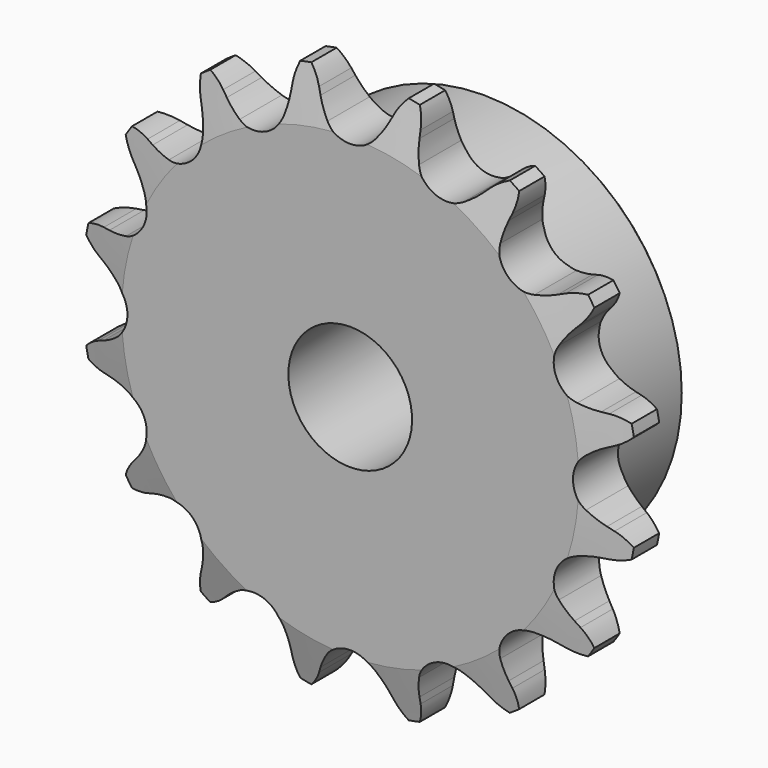
from build123d import *

# Parameters (mm, degrees)
F0_W     = 7.2136
F0_H     = 10.287
F0_H_2   = 17.4625
F0_W_2   = 15.0114
F2_R     = 1.5875
F3_SIZE  = 0.79375
F4_SIZE2 = 6.35
F4_SIZE  = 1.5748
F6_DEPTH = 22.226


with BuildPart() as f1:
    # F0 (on Right) → F1 (revolve)
    with BuildSketch(Plane.YZ):
        with Locations((3.6068, 30.5435)):
            Rectangle(F0_W, F0_H)
        with Locations((3.6068, 16.66875)):
            Rectangle(F0_W, F0_H_2)
        with Locations((14.7193, 16.66875)):
            Rectangle(F0_W_2, F0_H_2)
    revolve(axis=Axis((0, 11.1125, 0), (0, 1, 0)))

    # F2
    f2_edges = [f1.edges().sort_by_distance(p)[0] for p in [
        (0, 7.2136, -25.4),
    ]]
    fillet(f2_edges, radius=F2_R)

    # F3
    f3_edges = [f1.edges().sort_by_distance(p)[0] for p in [
        (0, 22.225, -25.4),
    ]]
    chamfer(f3_edges, length=F3_SIZE)

    # F4
    f4_edges = [f1.edges().sort_by_distance(p)[0] for p in [
        (0, 0, -35.687),
        (0, 7.2136, -35.687),
    ]]
    f4_side = f1.faces().sort_by_distance((0, 3.6068, -35.687))[0]
    chamfer(f4_edges, length=F4_SIZE, length2=F4_SIZE2, reference=f4_side)

    # F5 (on face) → F6 (intersect, through all)
    with BuildSketch(Plane.XZ):
        with BuildLine():
            ThreePointArc((-3.0902142758, 30.0699408338), (-3.8441959519, 31.1417538349), (-4.4568878106, 32.3001493474))
            Line((-4.4568878106, 32.3001493474), (-4.8164154778, 33.0982711732))
            ThreePointArc((-4.8164154778, 33.0982711732), (-5.7824590494, 34.6345413147), (-7.1308367855, 35.8491373836))
            ThreePointArc((-7.1308367855, 35.8491373836), (-7.9117695854, 34.2109951151), (-8.2163723379, 32.4219777052))
            Line((-8.2163723379, 32.4219777052), (-8.2431045912, 31.5470240041))
            ThreePointArc((-8.2431045912, 31.5470240041), (-8.3658592885, 30.2423390761), (-8.6522824488, 28.963576686))
            ThreePointArc((-8.6522824488, 28.963576686), (-10.9400391594, 26.4115909116), (-14.3622538898, 26.5984290744))
            ThreePointArc((-14.3622538898, 26.5984290744), (-15.4690072063, 27.300118873), (-16.4783594451, 28.135869754))
            Line((-16.4783594451, 28.135869754), (-17.115947698, 28.7356528917))
            ThreePointArc((-17.115947698, 28.7356528917), (-18.596360712, 29.7852925621), (-20.3069050971, 30.3914311902))
            ThreePointArc((-20.3069050971, 30.3914311902), (-20.4015030212, 28.5791350327), (-19.9982919468, 26.8097320375))
            Line((-19.9982919468, 26.8097320375), (-19.688159043, 25.9911502307))
            ThreePointArc((-19.688159043, 25.9911502307), (-19.3022882889, 24.7388023405), (-19.0775476037, 23.4477705432))
            ThreePointArc((-19.0775476037, 23.4477705432), (-20.2145565285, 20.2145565285), (-23.4477705432, 19.0775476037))
            ThreePointArc((-23.4477705432, 19.0775476037), (-24.7388023405, 19.3022882889), (-25.9911502307, 19.688159043))
            Line((-25.9911502307, 19.688159043), (-26.8097320375, 19.9982919468))
            ThreePointArc((-26.8097320375, 19.9982919468), (-28.5791350327, 20.4015030212), (-30.3914311902, 20.3069050971))
            ThreePointArc((-30.3914311902, 20.3069050971), (-29.7852925621, 18.596360712), (-28.7356528917, 17.115947698))
            Line((-28.7356528917, 17.115947698), (-28.135869754, 16.4783594451))
            ThreePointArc((-28.135869754, 16.4783594451), (-27.300118873, 15.4690072063), (-26.5984290744, 14.3622538898))
            ThreePointArc((-26.5984290744, 14.3622538898), (-26.4115909116, 10.9400391594), (-28.963576686, 8.6522824488))
            ThreePointArc((-28.963576686, 8.6522824488), (-30.2423390761, 8.3658592885), (-31.5470240041, 8.2431045912))
            Line((-31.5470240041, 8.2431045912), (-32.4219777052, 8.2163723379))
            ThreePointArc((-32.4219777052, 8.2163723379), (-34.2109951151, 7.9117695854), (-35.8491373836, 7.1308367855))
            ThreePointArc((-35.8491373836, 7.1308367855), (-34.6345413147, 5.7824590494), (-33.0982711732, 4.8164154778))
            Line((-33.0982711732, 4.8164154778), (-32.3001493474, 4.4568878106))
            ThreePointArc((-32.3001493474, 4.4568878106), (-31.1417538349, 3.8441959519), (-30.0699408338, 3.0902142758))
            ThreePointArc((-30.0699408338, 3.0902142758), (-28.5877, 0), (-30.0699408338, -3.0902142758))
            ThreePointArc((-30.0699408338, -3.0902142758), (-31.1417538349, -3.8441959519), (-32.3001493474, -4.4568878106))
            Line((-32.3001493474, -4.4568878106), (-33.0982711732, -4.8164154778))
            ThreePointArc((-33.0982711732, -4.8164154778), (-34.6345413147, -5.7824590494), (-35.8491373836, -7.1308367855))
            ThreePointArc((-35.8491373836, -7.1308367855), (-34.2109951151, -7.9117695854), (-32.4219777052, -8.2163723379))
            Line((-32.4219777052, -8.2163723379), (-31.5470240041, -8.2431045912))
            ThreePointArc((-31.5470240041, -8.2431045912), (-30.2423390761, -8.3658592885), (-28.963576686, -8.6522824488))
            ThreePointArc((-28.963576686, -8.6522824488), (-26.4115909116, -10.9400391594), (-26.5984290744, -14.3622538898))
            ThreePointArc((-26.5984290744, -14.3622538898), (-27.300118873, -15.4690072063), (-28.135869754, -16.4783594451))
            Line((-28.135869754, -16.4783594451), (-28.7356528917, -17.115947698))
            ThreePointArc((-28.7356528917, -17.115947698), (-29.7852925621, -18.596360712), (-30.3914311902, -20.3069050971))
            ThreePointArc((-30.3914311902, -20.3069050971), (-28.5791350327, -20.4015030212), (-26.8097320375, -19.9982919468))
            Line((-26.8097320375, -19.9982919468), (-25.9911502307, -19.688159043))
            ThreePointArc((-25.9911502307, -19.688159043), (-24.7388023405, -19.3022882889), (-23.4477705432, -19.0775476037))
            ThreePointArc((-23.4477705432, -19.0775476037), (-20.2145565285, -20.2145565285), (-19.0775476037, -23.4477705432))
            ThreePointArc((-19.0775476037, -23.4477705432), (-19.3022882889, -24.7388023405), (-19.688159043, -25.9911502307))
            Line((-19.688159043, -25.9911502307), (-19.9982919468, -26.8097320375))
            ThreePointArc((-19.9982919468, -26.8097320375), (-20.4015030212, -28.5791350327), (-20.3069050971, -30.3914311902))
            ThreePointArc((-20.3069050971, -30.3914311902), (-18.596360712, -29.7852925621), (-17.115947698, -28.7356528917))
            Line((-17.115947698, -28.7356528917), (-16.4783594451, -28.135869754))
            ThreePointArc((-16.4783594451, -28.135869754), (-15.4690072063, -27.300118873), (-14.3622538898, -26.5984290744))
            ThreePointArc((-14.3622538898, -26.5984290744), (-10.9400391594, -26.4115909116), (-8.6522824488, -28.963576686))
            ThreePointArc((-8.6522824488, -28.963576686), (-8.3658592885, -30.2423390761), (-8.2431045912, -31.5470240041))
            Line((-8.2431045912, -31.5470240041), (-8.2163723379, -32.4219777052))
            ThreePointArc((-8.2163723379, -32.4219777052), (-7.9117695854, -34.2109951151), (-7.1308367855, -35.8491373836))
            ThreePointArc((-7.1308367855, -35.8491373836), (-5.7824590494, -34.6345413147), (-4.8164154778, -33.0982711732))
            Line((-4.8164154778, -33.0982711732), (-4.4568878106, -32.3001493474))
            ThreePointArc((-4.4568878106, -32.3001493474), (-3.8441959519, -31.1417538349), (-3.0902142758, -30.0699408338))
            ThreePointArc((-3.0902142758, -30.0699408338), (0, -28.5877), (3.0902142758, -30.0699408338))
            ThreePointArc((3.0902142758, -30.0699408338), (3.8441959519, -31.1417538349), (4.4568878106, -32.3001493474))
            Line((4.4568878106, -32.3001493474), (4.8164154778, -33.0982711732))
            ThreePointArc((4.8164154778, -33.0982711732), (5.7824590494, -34.6345413147), (7.1308367855, -35.8491373836))
            ThreePointArc((7.1308367855, -35.8491373836), (7.9117695854, -34.2109951151), (8.2163723379, -32.4219777052))
            Line((8.2163723379, -32.4219777052), (8.2431045912, -31.5470240041))
            ThreePointArc((8.2431045912, -31.5470240041), (8.3658592885, -30.2423390761), (8.6522824488, -28.963576686))
            ThreePointArc((8.6522824488, -28.963576686), (10.9400391594, -26.4115909116), (14.3622538898, -26.5984290744))
            ThreePointArc((14.3622538898, -26.5984290744), (15.4690072063, -27.300118873), (16.4783594451, -28.135869754))
            Line((16.4783594451, -28.135869754), (17.115947698, -28.7356528917))
            ThreePointArc((17.115947698, -28.7356528917), (18.596360712, -29.7852925621), (20.3069050971, -30.3914311902))
            ThreePointArc((20.3069050971, -30.3914311902), (20.4015030212, -28.5791350327), (19.9982919468, -26.8097320375))
            Line((19.9982919468, -26.8097320375), (19.688159043, -25.9911502307))
            ThreePointArc((19.688159043, -25.9911502307), (19.3022882889, -24.7388023405), (19.0775476037, -23.4477705432))
            ThreePointArc((19.0775476037, -23.4477705432), (20.2145565285, -20.2145565285), (23.4477705432, -19.0775476037))
            ThreePointArc((23.4477705432, -19.0775476037), (24.7388023405, -19.3022882889), (25.9911502307, -19.688159043))
            Line((25.9911502307, -19.688159043), (26.8097320375, -19.9982919468))
            ThreePointArc((26.8097320375, -19.9982919468), (28.5791350327, -20.4015030212), (30.3914311902, -20.3069050971))
            ThreePointArc((30.3914311902, -20.3069050971), (29.7852925621, -18.596360712), (28.7356528917, -17.115947698))
            Line((28.7356528917, -17.115947698), (28.135869754, -16.4783594451))
            ThreePointArc((28.135869754, -16.4783594451), (27.300118873, -15.4690072063), (26.5984290744, -14.3622538898))
            ThreePointArc((26.5984290744, -14.3622538898), (26.4115909116, -10.9400391594), (28.963576686, -8.6522824488))
            ThreePointArc((28.963576686, -8.6522824488), (30.2423390761, -8.3658592885), (31.5470240041, -8.2431045912))
            Line((31.5470240041, -8.2431045912), (32.4219777052, -8.2163723379))
            ThreePointArc((32.4219777052, -8.2163723379), (34.2109951151, -7.9117695854), (35.8491373836, -7.1308367855))
            ThreePointArc((35.8491373836, -7.1308367855), (34.6345413147, -5.7824590494), (33.0982711732, -4.8164154778))
            Line((33.0982711732, -4.8164154778), (32.3001493474, -4.4568878106))
            ThreePointArc((32.3001493474, -4.4568878106), (31.1417538349, -3.8441959519), (30.0699408338, -3.0902142758))
            ThreePointArc((30.0699408338, -3.0902142758), (28.5877, 0), (30.0699408338, 3.0902142758))
            ThreePointArc((30.0699408338, 3.0902142758), (31.1417538349, 3.8441959519), (32.3001493474, 4.4568878106))
            Line((32.3001493474, 4.4568878106), (33.0982711732, 4.8164154778))
            ThreePointArc((33.0982711732, 4.8164154778), (34.6345413147, 5.7824590494), (35.8491373836, 7.1308367855))
            ThreePointArc((35.8491373836, 7.1308367855), (34.2109951151, 7.9117695854), (32.4219777052, 8.2163723379))
            Line((32.4219777052, 8.2163723379), (31.5470240041, 8.2431045912))
            ThreePointArc((31.5470240041, 8.2431045912), (30.2423390761, 8.3658592885), (28.963576686, 8.6522824488))
            ThreePointArc((28.963576686, 8.6522824488), (26.4115909116, 10.9400391594), (26.5984290744, 14.3622538898))
            ThreePointArc((26.5984290744, 14.3622538898), (27.300118873, 15.4690072063), (28.135869754, 16.4783594451))
            Line((28.135869754, 16.4783594451), (28.7356528917, 17.115947698))
            ThreePointArc((28.7356528917, 17.115947698), (29.7852925621, 18.596360712), (30.3914311902, 20.3069050971))
            ThreePointArc((30.3914311902, 20.3069050971), (28.5791350327, 20.4015030212), (26.8097320375, 19.9982919468))
            Line((26.8097320375, 19.9982919468), (25.9911502307, 19.688159043))
            ThreePointArc((25.9911502307, 19.688159043), (24.7388023405, 19.3022882889), (23.4477705432, 19.0775476037))
            ThreePointArc((23.4477705432, 19.0775476037), (20.2145565285, 20.2145565285), (19.0775476037, 23.4477705432))
            ThreePointArc((19.0775476037, 23.4477705432), (19.3022882889, 24.7388023405), (19.688159043, 25.9911502307))
            Line((19.688159043, 25.9911502307), (19.9982919468, 26.8097320375))
            ThreePointArc((19.9982919468, 26.8097320375), (20.4015030212, 28.5791350327), (20.3069050971, 30.3914311902))
            ThreePointArc((20.3069050971, 30.3914311902), (18.596360712, 29.7852925621), (17.115947698, 28.7356528917))
            Line((17.115947698, 28.7356528917), (16.4783594451, 28.135869754))
            ThreePointArc((16.4783594451, 28.135869754), (15.4690072063, 27.300118873), (14.3622538898, 26.5984290744))
            ThreePointArc((14.3622538898, 26.5984290744), (10.9400391594, 26.4115909116), (8.6522824488, 28.963576686))
            ThreePointArc((8.6522824488, 28.963576686), (8.3658592885, 30.2423390761), (8.2431045912, 31.5470240041))
            Line((8.2431045912, 31.5470240041), (8.2163723379, 32.4219777052))
            ThreePointArc((8.2163723379, 32.4219777052), (7.9117695854, 34.2109951151), (7.1308367855, 35.8491373836))
            ThreePointArc((7.1308367855, 35.8491373836), (5.7824590494, 34.6345413147), (4.8164154778, 33.0982711732))
            Line((4.8164154778, 33.0982711732), (4.4568878106, 32.3001493474))
            ThreePointArc((4.4568878106, 32.3001493474), (3.8441959519, 31.1417538349), (3.0902142758, 30.0699408338))
            ThreePointArc((3.0902142758, 30.0699408338), (0, 28.5877), (-3.0902142758, 30.0699408338))
        make_face()
    extrude(amount=-F6_DEPTH, mode=Mode.INTERSECT)


solid = f1.part
